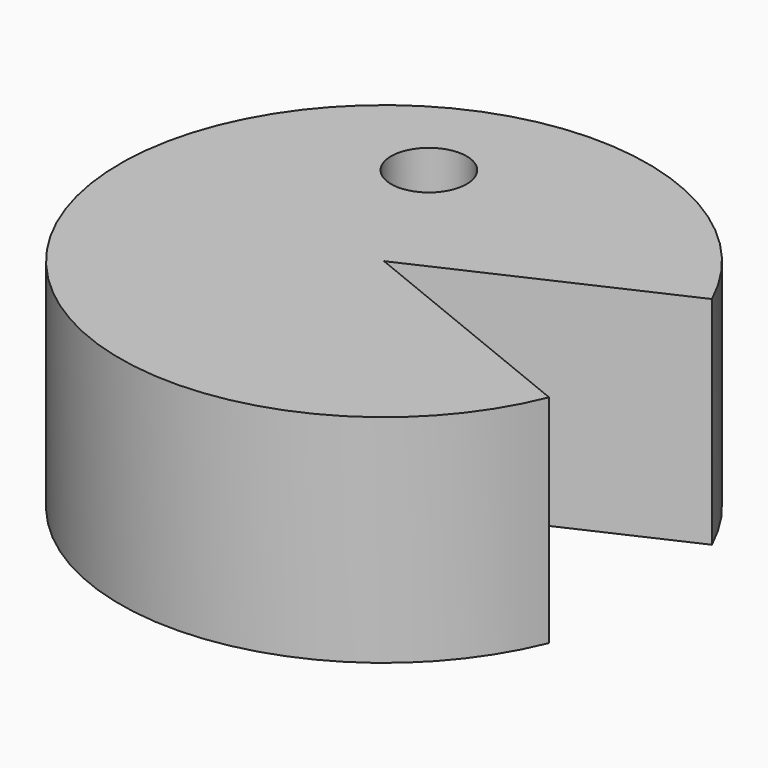
from build123d import *

# Parameters (mm, degrees)
F0_R     = 69.4193310411
F1_DEPTH = 56.896
F2_R     = 9.940441655
F3_DEPTH = 56.897


with BuildPart() as f1:
    # F0 (on Top) → F1 (new body)
    with BuildSketch(Plane.XY):
        Circle(F0_R)
    extrude(amount=F1_DEPTH)

    # F2 (on face) → F3 (cut, through all)
    with BuildSketch(Plane.XY.offset(56.896)):
        with BuildLine():
            Line((63.1152719338, 28.9051201506), (0, 0))
            Line((0, 0), (64.3157008178, -26.1253545529))
            ThreePointArc((64.3157008178, -26.1253545529), (68.1314774844, -13.3095942084), (69.4193310411, 0))
            ThreePointArc((69.4193310411, 0), (67.8250082135, 14.7922879582), (63.1152719338, 28.9051201506))
        make_face()
        with Locations((-18.0870443583, 37.3609773815)):
            Circle(F2_R)
    extrude(amount=-F3_DEPTH, mode=Mode.SUBTRACT)


solid = f1.part
